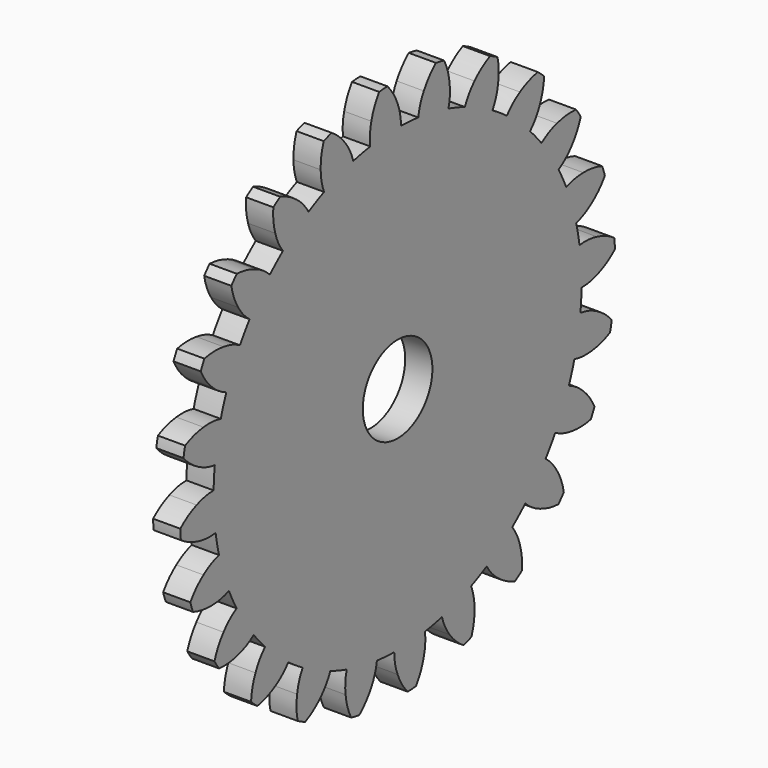
from build123d import *

# Parameters (mm, degrees)
F1_DEPTH = 6.35
F2_COUNT = 24
F3_R     = 10.16
F4_DEPTH = 25.4


with BuildPart() as f1:
    # F0 (on Right) → F1 (new body)
    with BuildSketch(Plane.YZ):
        with BuildLine():
            ThreePointArc((-7.988317, 53.123748), (-35.048577, -40.712935), (53.721, 0))
            ThreePointArc((53.721, 0), (38.333479, 37.636288), (0.985935, 53.711952))
            ThreePointArc((0.985935, 53.711952), (-3.513522, 53.605979), (-7.988317, 53.123748))
        make_face()
        with BuildLine():
            ThreePointArc((-7.988317, 53.123748), (-3.513522, 53.605979), (0.985935, 53.711952))
            ThreePointArc((0.985935, 53.711952), (0.736013, 56.241268), (0, 58.674))
            ThreePointArc((0, 58.674), (-1.24387, 61.192859), (-2.940529, 63.431879))
            ThreePointArc((-2.940529, 63.431879), (-4.154716, 63.388724), (-5.364149, 63.273027))
            ThreePointArc((-5.364149, 63.273027), (-6.754042, 60.831703), (-7.658494, 58.172036))
            ThreePointArc((-7.658494, 58.172036), (-8.070674, 55.664047), (-7.988317, 53.123748))
        make_face()
    extrude(amount=-F1_DEPTH)

    # F2: F1 ×24 about axis
    f2_axis = Axis((0, 0, 0), (1, 0, 0))


with BuildPart() as f1_1:
    add(f1.part)
    for i in range(1, F2_COUNT):
        add(f1.part.rotate(f2_axis, i * 360 / F2_COUNT))

    # F3 (on face) → F4 (cut)
    with BuildSketch(Plane(origin=(-6.35, 0, 0), x_dir=(0, -1, 0), z_dir=(-1, 0, 0))):
        Circle(F3_R)
    extrude(amount=-F4_DEPTH, mode=Mode.SUBTRACT)


solid = f1_1.part
